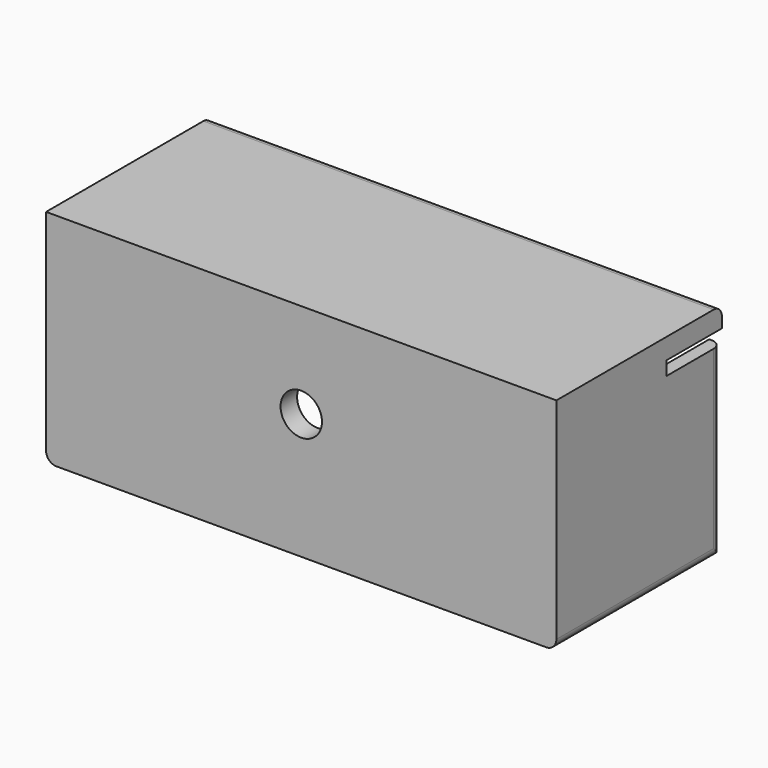
from build123d import *

# Parameters (mm, degrees)
F2_DEPTH = 30
F3_DEPTH = 27
F4_W     = 10
F4_H     = 2
F5_DEPTH = 74.5
F6_R     = 3
F7_DEPTH = 25
F8_R     = 1.5


with BuildPart() as f2:
    # F0 (on Front) → F2 (new body)
    with BuildSketch(Plane.XZ):
        Polygon((-37, 0), (0, 0), (37, 0), (37, 32), (-37, 32), align=None)
    extrude(amount=F2_DEPTH)

    # F1 (on face) → F3 (cut)
    with BuildSketch(Plane.XZ):
        Polygon((-34.841463, 29), (-34.841463, 0), (0, 0), (35.158537, 0), (35.158537, 29), align=None)
    extrude(amount=F3_DEPTH, mode=Mode.SUBTRACT)

    # F4 (on face) → F5 (cut)
    with BuildSketch(Plane(origin=(-37, 0, 0), x_dir=(0, -1, 0), z_dir=(-1, 0, 0))):
        with Locations((5, 28)):
            Rectangle(F4_W, F4_H)
    extrude(amount=-F5_DEPTH, mode=Mode.SUBTRACT)

    # F6 (on face) → F7 (cut)
    with BuildSketch(Plane.XZ.offset(30)):
        with Locations((0, 18.206734)):
            Circle(F6_R)
    extrude(amount=-F7_DEPTH, mode=Mode.SUBTRACT)

    # F8
    f8_edges = [f2.edges().sort_by_distance(p)[0] for p in [
        (37, -15, 0),
        (0, 0, 32),
        (-37, -15, 0),
        (-37, 0, 13.5),
        (37, 0, 13.5),
    ]]
    fillet(f8_edges, radius=F8_R)


solid = f2.part
